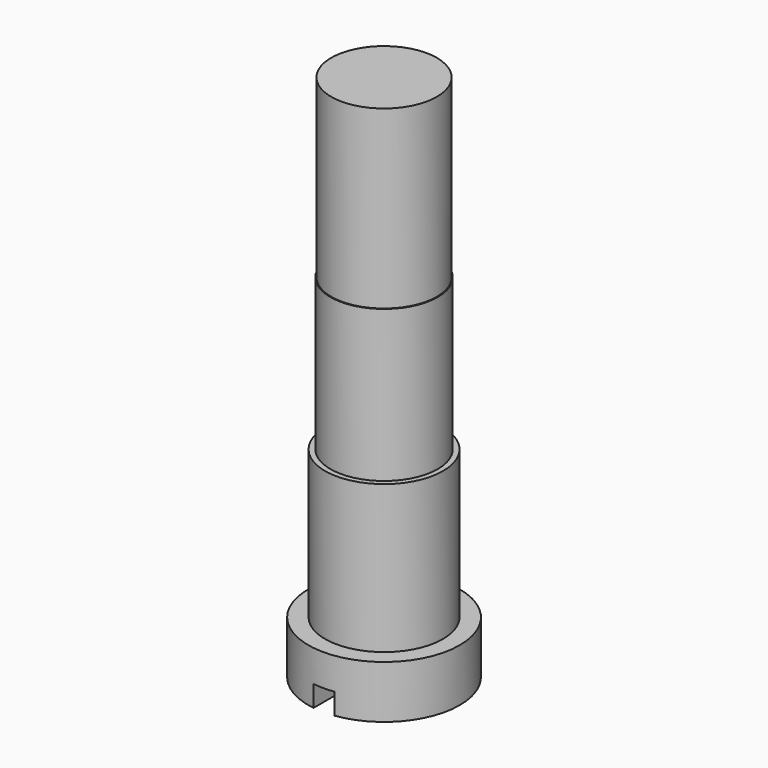
from build123d import *

# Parameters (mm, degrees)
F2_W          = 0.6
F2_H          = 0.6
F3_DEPTH      = 2.151
F3_DEPTH_BACK = 2.151


with BuildPart() as f1:
    # F0 (on Front) → F1 (revolve)
    with BuildSketch(Plane.XZ):
        Polygon((0, 15), (0, 0), (2.15, 0), (2.15, 1.5), (1.675, 1.5), (1.675, 5.7), (1.525, 5.7), (1.525, 10), (1.5, 10), (1.5, 15), align=None)
    revolve(axis=Axis((0, 0, 8.8781863451), (0, 0, -1)))

    # F2 (on Front) → F3 (cut, two sides)
    with BuildSketch(Plane.XZ) as f3_sk:
        with Locations((0, 0.3)):
            Rectangle(F2_W, F2_H)
    extrude(amount=-F3_DEPTH, mode=Mode.SUBTRACT)
    extrude(f3_sk.sketch, amount=F3_DEPTH_BACK, mode=Mode.SUBTRACT)


solid = f1.part
